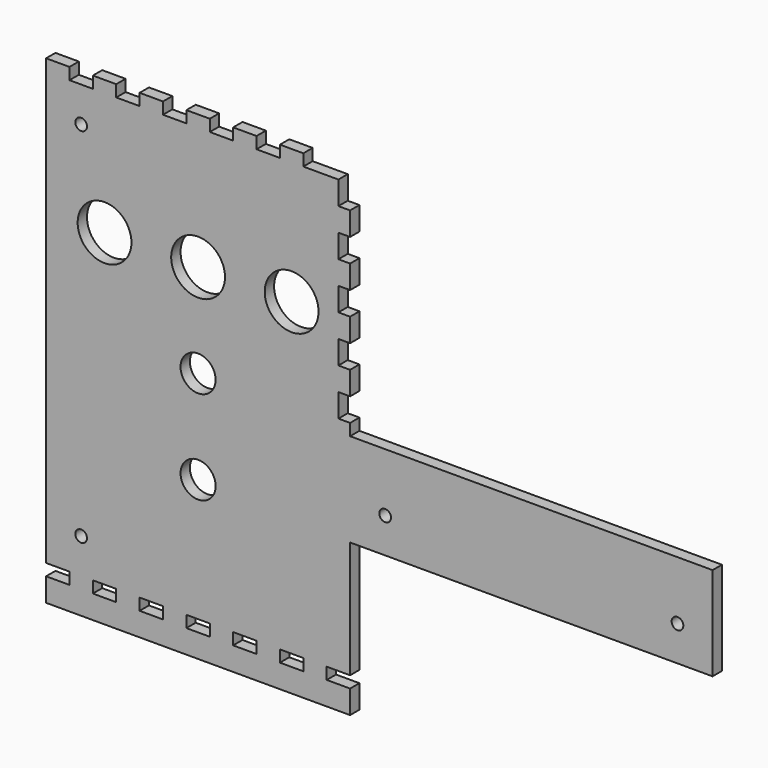
from build123d import *

# Parameters (mm, degrees)
PAD_DEPTH       = 2.5
SKETCH001_W     = 10
SKETCH001_H     = 5
POCKET_DEPTH    = 5.001
SKETCH002_R     = 2.5
POCKET001_DEPTH = 5.001
SKETCH003_W     = 10
SKETCH003_H     = 5
SKETCH003_W_2   = 20
POCKET002_DEPTH = 5.001
SKETCH004_W     = 5
SKETCH004_H     = 10
POCKET003_DEPTH = 5.001
SKETCH005_R     = 11.5
POCKET004_DEPTH = 5.001
SKETCH006_R     = 7.5
POCKET005_DEPTH = 5.001


with BuildPart() as part:
    # Sketch → Pad (new body, symmetric)
    with BuildSketch(Plane.XZ):
        Polygon((-65, 102.5), (65, 102.5), (65, 2.5), (220, 2.5), (220, -37.5), (65, -37.5), (65, -102.5), (-65, -102.5), align=None)
    extrude(amount=PAD_DEPTH, both=True)

    # Sketch001 (on Face10 of Pad) → Pocket (cut, through all)
    with BuildSketch(Plane.XZ.offset(2.5)):
        with Locations((-60, -90)):
            Rectangle(SKETCH001_W, SKETCH001_H)
        with Locations((-40, -90)):
            Rectangle(SKETCH001_W, SKETCH001_H)
        with Locations((-20, -90)):
            Rectangle(SKETCH001_W, SKETCH001_H)
        with Locations((0, -90)):
            Rectangle(SKETCH001_W, SKETCH001_H)
        with Locations((20, -90)):
            Rectangle(SKETCH001_W, SKETCH001_H)
        with Locations((40, -90)):
            Rectangle(SKETCH001_W, SKETCH001_H)
        with Locations((60, -90)):
            Rectangle(SKETCH001_W, SKETCH001_H)
    extrude(amount=-POCKET_DEPTH, mode=Mode.SUBTRACT)

    # Sketch002 (on Face5 of Pocket) → Pocket001 (cut, through all)
    with BuildSketch(Plane.XZ.offset(2.5)):
        with Locations((-50, 82.5)):
            Circle(SKETCH002_R)
        with Locations((-50, -72.5)):
            Circle(SKETCH002_R)
        with Locations((80, -22.5)):
            Circle(SKETCH002_R)
        with Locations((205, -22.5)):
            Circle(SKETCH002_R)
    extrude(amount=-POCKET001_DEPTH, mode=Mode.SUBTRACT)

    # Sketch003 (on Face5 of Pocket001) → Pocket002 (cut, through all)
    with BuildSketch(Plane.XZ.offset(2.5)):
        with Locations((-50, 100)):
            Rectangle(SKETCH003_W, SKETCH003_H)
        with Locations((-30, 100)):
            Rectangle(SKETCH003_W, SKETCH003_H)
        with Locations((-10, 100)):
            Rectangle(SKETCH003_W, SKETCH003_H)
        with Locations((10, 100)):
            Rectangle(SKETCH003_W, SKETCH003_H)
        with Locations((30, 100)):
            Rectangle(SKETCH003_W, SKETCH003_H)
        with Locations((55, 100)):
            Rectangle(SKETCH003_W_2, SKETCH003_H)
    extrude(amount=-POCKET002_DEPTH, mode=Mode.SUBTRACT)

    # Sketch004 (on Face4 of Pocket002) → Pocket003 (cut, through all)
    with BuildSketch(Plane.XZ.offset(2.5)):
        with Locations((62.5, 92.5)):
            Rectangle(SKETCH004_W, SKETCH004_H)
        with Locations((62.5, 72.5)):
            Rectangle(SKETCH004_W, SKETCH004_H)
        with Locations((62.5, 52.5)):
            Rectangle(SKETCH004_W, SKETCH004_H)
        with Locations((62.5, 32.5)):
            Rectangle(SKETCH004_W, SKETCH004_H)
        with Locations((62.5, 12.5)):
            Rectangle(SKETCH004_W, SKETCH004_H)
    extrude(amount=-POCKET003_DEPTH, mode=Mode.SUBTRACT)

    # Sketch005 (on Face4 of Pocket003) → Pocket004 (cut, through all)
    with BuildSketch(Plane.XZ.offset(2.5)):
        with Locations((-40, 45)):
            Circle(SKETCH005_R)
        with Locations((0, 45)):
            Circle(SKETCH005_R)
        with Locations((40, 45)):
            Circle(SKETCH005_R)
    extrude(amount=-POCKET004_DEPTH, mode=Mode.SUBTRACT)

    # Sketch006 (on Face4 of Pocket004) → Pocket005 (cut, through all)
    with BuildSketch(Plane.XZ.offset(2.5)):
        with Locations((0, 5)):
            Circle(SKETCH006_R)
        with Locations((0, -35)):
            Circle(SKETCH006_R)
    extrude(amount=-POCKET005_DEPTH, mode=Mode.SUBTRACT)


solid = part.part
